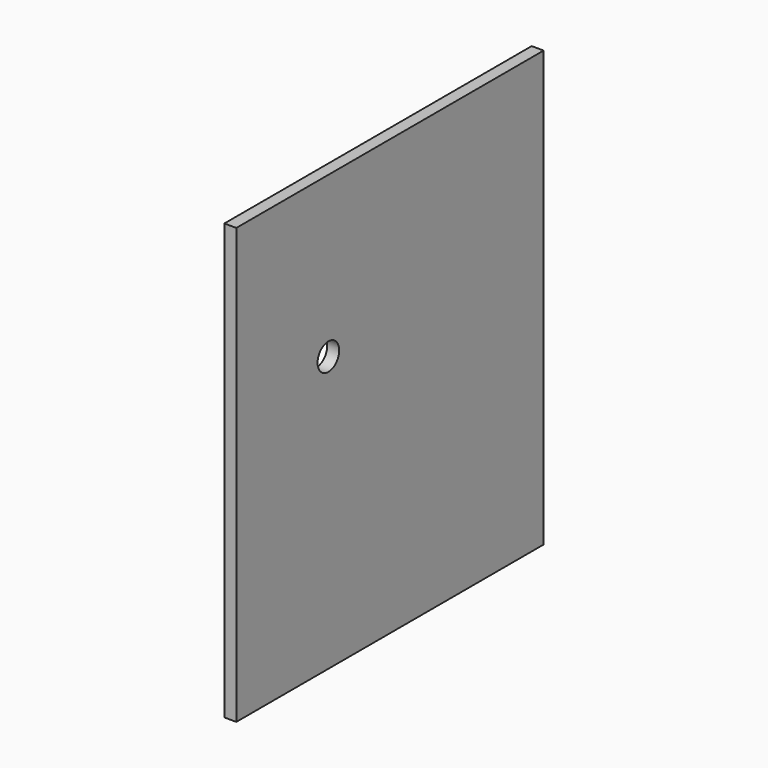
from build123d import *

# Parameters (mm, degrees)
F0_W     = 406.4
F0_H     = 460.052356
F1_DEPTH = 12.7
F2_R     = 14.2875
F3_DEPTH = 12.701


with BuildPart() as f1:
    # F0 (on Right) → F1 (new body)
    with BuildSketch(Plane.YZ):
        with Locations((-149.734837, 58.630325)):
            Rectangle(F0_W, F0_H)
    extrude(amount=F1_DEPTH)

    # F2 (on face) → F3 (cut, through all)
    with BuildSketch(Plane.YZ.offset(12.7)):
        with Locations((-231.220242, 119.316859)):
            Circle(F2_R)
    extrude(amount=-F3_DEPTH, mode=Mode.SUBTRACT)


solid = f1.part
